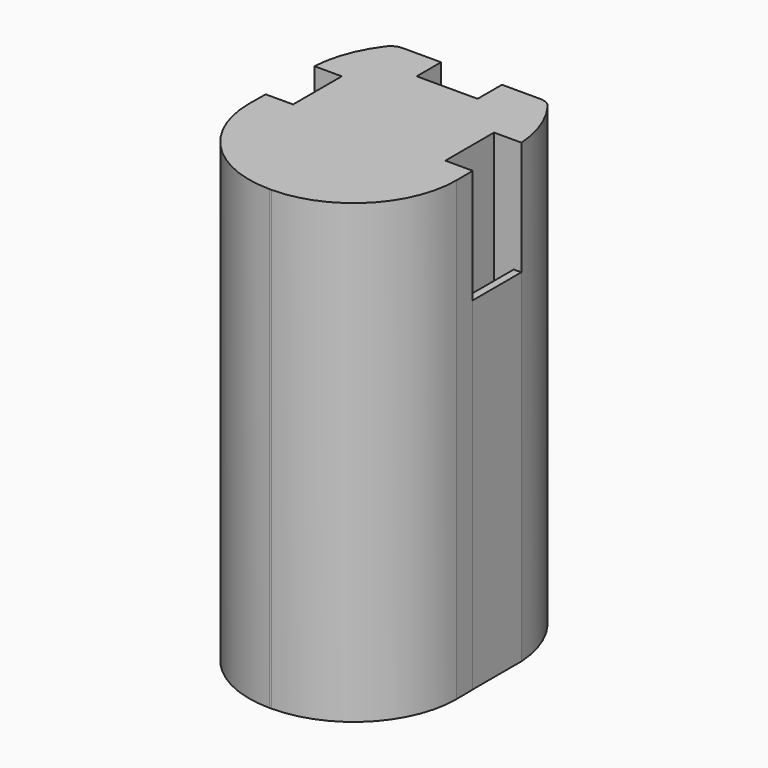
from build123d import *

# Parameters (mm, degrees)
F1_DEPTH = 60
F3_W     = 1
F3_H     = 8.3882696927
F3_H_2   = 8.6999088526
F4_DEPTH = 45


with BuildPart() as f1:
    # F0 (on Top) → F1 (new body)
    with BuildSketch(Plane.XY):
        with BuildLine():
            ThreePointArc((0, 13.5), (3.954058454, 3.954058454), (13.5, 0))
            Line((13.5, 0), (13.75, 0))
            ThreePointArc((13.75, 0), (23.295941546, 3.954058454), (27.25, 13.5))
            Line((27.25, 13.5), (27.2197339321, 16.2))
            Line((27.2197339321, 16.2), (23.625, 16.2))
            Line((23.625, 16.2), (23.625, 24.2))
            Line((23.625, 24.2), (27.2197339321, 24.2))
            ThreePointArc((27.2197339321, 24.2), (26.3278402534, 28.4148131498), (24.2691905557, 32.1992662998))
            ThreePointArc((24.2691905557, 32.1992662998), (23.5634777912, 32.7886492948), (22.6686405434, 33))
            Line((22.6686405434, 33), (17.625, 33))
            Line((17.625, 33), (17.625, 29))
            Line((17.625, 29), (9.625, 29))
            Line((9.625, 29), (9.625, 33))
            Line((9.625, 33), (4.5813594566, 33))
            ThreePointArc((4.5813594566, 33), (3.6865222088, 32.7886492948), (2.9808094443, 32.1992662998))
            ThreePointArc((2.9808094443, 32.1992662998), (0.9221597466, 28.4148131498), (0.0302660679, 24.2))
            Line((0.0302660679, 24.2), (3.625, 24.2))
            Line((3.625, 24.2), (3.625, 16.2))
            Line((3.625, 16.2), (0.0302660679, 16.2))
            Line((0.0302660679, 16.2), (0, 13.5))
        make_face()
    extrude(amount=F1_DEPTH)

    # F3 (on offset) → F4 (join)
    with BuildSketch(Plane(origin=(0, 0, 0), x_dir=(1, 0, 0), z_dir=(0, 0, -1))):
        with Locations((0.5, -19.9902579188)):
            Rectangle(F3_W, F3_H)
        with Locations((26.7048169971, -19.9396312237)):
            Rectangle(F3_W, F3_H_2)
        Polygon((17.9698187858, -31.9895466566), (9.4149392098, -31.9895466566), (9.2657264322, -32.9895466566), (17.9698187858, -32.9895466566), align=None)
    extrude(amount=-F4_DEPTH)


solid = f1.part
